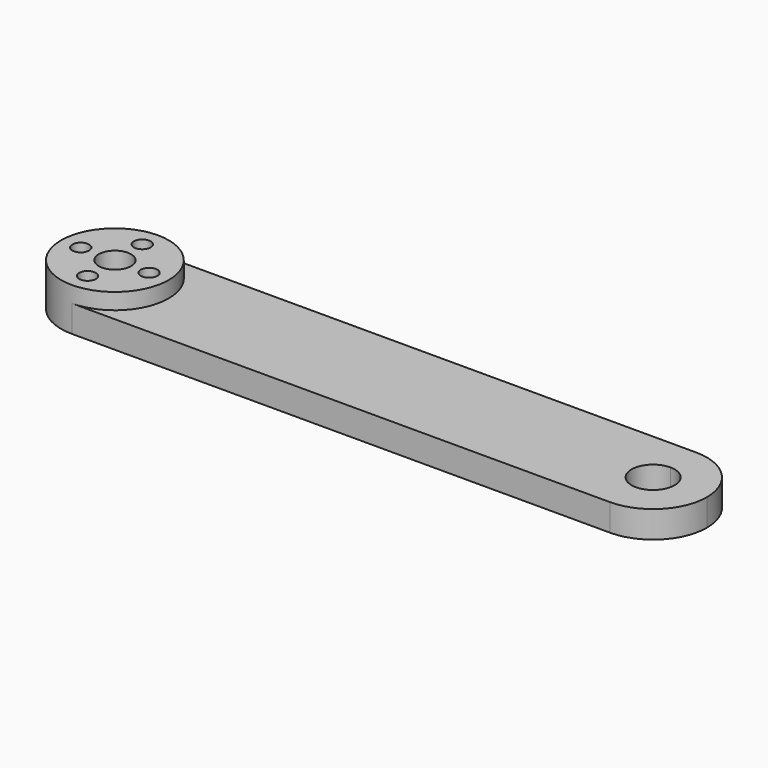
from build123d import *

# Parameters (mm, degrees)
F0_R     = 1.55
F0_R_2   = 3
F1_DEPTH = 5
F2_DEPTH = 8


with BuildPart() as f1:
    # F0 (on Top) → F1 (new body)
    with BuildSketch(Plane.XY):
        with BuildLine():
            ThreePointArc((9.1651513899, -4), (9.7890631293, -2.0430964369), (10, 0))
            ThreePointArc((10, 0), (9.7890631293, 2.0430964369), (9.1651513899, 4))
            ThreePointArc((9.1651513899, 4), (5.4772255751, 8.3666002653), (0, 10))
            ThreePointArc((0, 10), (-10, 0), (0, -10))
            ThreePointArc((0, -10), (5.4772255751, -8.3666002653), (9.1651513899, -4))
        make_face()
        with Locations((0, -6.35)):
            Circle(F0_R, mode=Mode.SUBTRACT)
        with Locations((-6.35, 0)):
            Circle(F0_R, mode=Mode.SUBTRACT)
        Circle(F0_R_2, mode=Mode.SUBTRACT)
        with Locations((6.35, 0)):
            Circle(F0_R, mode=Mode.SUBTRACT)
        with Locations((0, 6.35)):
            Circle(F0_R, mode=Mode.SUBTRACT)
        with BuildLine():
            ThreePointArc((0, 10), (5.4772255751, 8.3666002653), (9.1651513899, 4))
            Line((9.1651513899, 4), (90.8348486101, 4))
            ThreePointArc((90.8348486101, 4), (94.5227744249, 8.3666002653), (100, 10))
            Line((100, 10), (0, 10))
        make_face()
        with BuildLine():
            ThreePointArc((100, 10), (94.5227744249, 8.3666002653), (90.8348486101, 4))
            Line((90.8348486101, 4), (100, 4))
            ThreePointArc((100, 4), (102.8284271247, 2.8284271247), (104, 0))
            ThreePointArc((104, 0), (102.8284271247, -2.8284271247), (100, -4))
            Line((100, -4), (90.8348486101, -4))
            ThreePointArc((90.8348486101, -4), (94.5227744249, -8.3666002653), (100, -10))
            ThreePointArc((100, -10), (107.0710678119, -7.0710678119), (110, 0))
            ThreePointArc((110, 0), (107.0710678119, 7.0710678119), (100, 10))
        make_face()
        with BuildLine():
            Line((90.8348486101, -4), (9.1651513899, -4))
            ThreePointArc((9.1651513899, -4), (5.4772255751, -8.3666002653), (0, -10))
            Line((0, -10), (100, -10))
            ThreePointArc((100, -10), (94.5227744249, -8.3666002653), (90.8348486101, -4))
        make_face()
        with BuildLine():
            ThreePointArc((9.1651513899, 4), (9.7890631293, 2.0430964369), (10, 0))
            ThreePointArc((10, 0), (9.7890631293, -2.0430964369), (9.1651513899, -4))
            Line((9.1651513899, -4), (90.8348486101, -4))
            ThreePointArc((90.8348486101, -4), (90, 0), (90.8348486101, 4))
            Line((90.8348486101, 4), (9.1651513899, 4))
        make_face()
        with BuildLine():
            Line((100, 4), (90.8348486101, 4))
            ThreePointArc((90.8348486101, 4), (90, 0), (90.8348486101, -4))
            Line((90.8348486101, -4), (100, -4))
            ThreePointArc((100, -4), (96, 0), (100, 4))
        make_face()
    extrude(amount=F1_DEPTH)

    # F0 (on Top) → F2 (join)
    with BuildSketch(Plane.XY):
        with BuildLine():
            ThreePointArc((9.1651513899, -4), (9.7890631293, -2.0430964369), (10, 0))
            ThreePointArc((10, 0), (9.7890631293, 2.0430964369), (9.1651513899, 4))
            ThreePointArc((9.1651513899, 4), (5.4772255751, 8.3666002653), (0, 10))
            ThreePointArc((0, 10), (-10, 0), (0, -10))
            ThreePointArc((0, -10), (5.4772255751, -8.3666002653), (9.1651513899, -4))
        make_face()
        with Locations((0, -6.35)):
            Circle(F0_R, mode=Mode.SUBTRACT)
        with Locations((-6.35, 0)):
            Circle(F0_R, mode=Mode.SUBTRACT)
        Circle(F0_R_2, mode=Mode.SUBTRACT)
        with Locations((6.35, 0)):
            Circle(F0_R, mode=Mode.SUBTRACT)
        with Locations((0, 6.35)):
            Circle(F0_R, mode=Mode.SUBTRACT)
    extrude(amount=F2_DEPTH)


solid = f1.part
